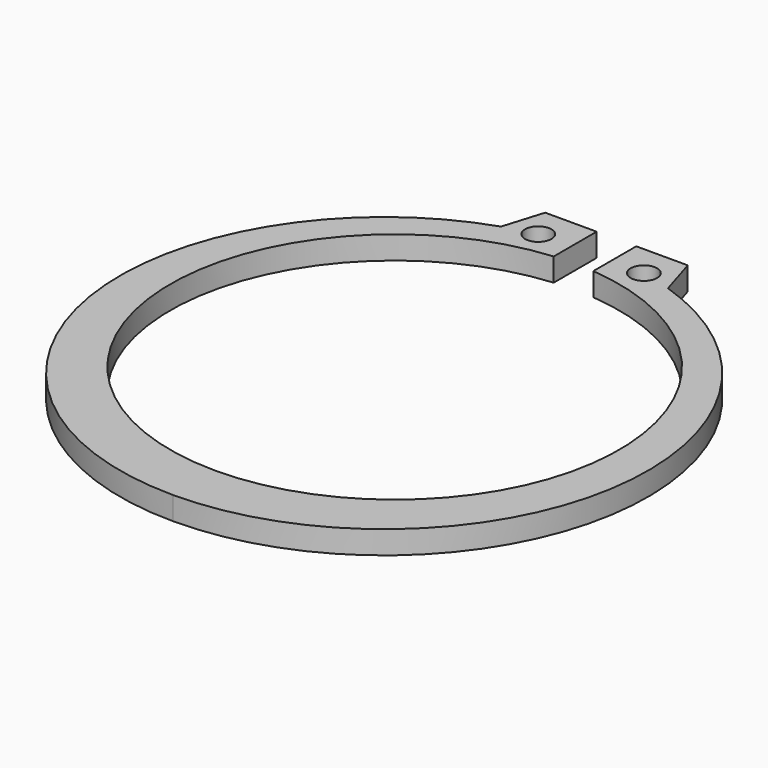
from build123d import *

# Parameters (mm, degrees)
F0_R     = 1
F1_DEPTH = 1.75


with BuildPart() as f1:
    # F0 (on Top) → F1 (new body)
    with BuildSketch(Plane.XY):
        with BuildLine():
            Line((-5.4, 22), (-6.325321, 18.973411))
            ThreePointArc((-6.325321, 18.973411), (-19.741684, -3.204043), (0, -20))
            Line((0, -20), (0, -16))
            ThreePointArc((0, -16), (-16.983415, 0.249268), (-1.5, 17.933694))
            Line((-1.5, 17.933694), (-1.5, 19.943671))
            Line((-1.5, 19.943671), (-1.5, 22))
            Line((-1.5, 22), (-5.4, 22))
        make_face()
        with Locations((-4, 19.595918)):
            Circle(F0_R, mode=Mode.SUBTRACT)
    extrude(amount=F1_DEPTH)

    # F2: F1 across plane


with BuildPart() as f1_1:
    add(f1.part)
    add(f1.part.mirror(Plane.YZ))


solid = f1_1.part
